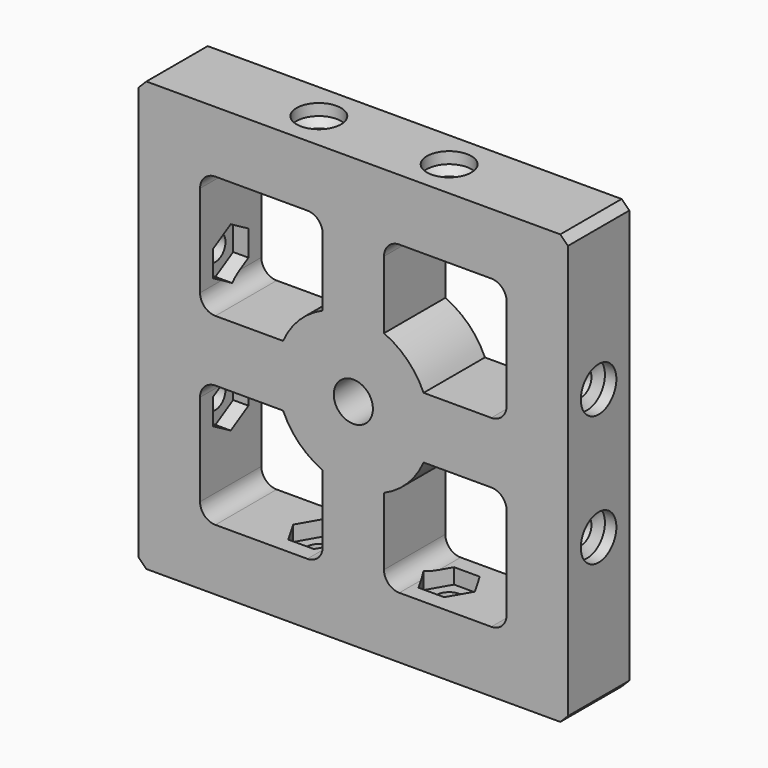
from build123d import *

# Parameters (mm, degrees)
F0_W      = 56
F0_H      = 56
F0_W_2    = 8
F0_H_2    = 8
F1_DEPTH  = 10
F3_START  = -6
F3_DEPTH  = 4
F4_D      = 3.3
F4_DEPTH  = 10
F4_TIP    = 0.9914200214
F5_D      = 5.8
F5_DEPTH  = 1.5
F5_TIP    = 1.7424957952
F7_START  = -6
F7_DEPTH  = 4
F8_D      = 5.8
F8_DEPTH  = 1.5
F8_TIP    = 1.7424957952
F9_D      = 3.3
F9_DEPTH  = 10
F9_START  = 2.2510758
F9_TIP    = 0.9914200214
F11_START = -6
F11_DEPTH = 4
F12_D     = 3.3
F12_DEPTH = 10
F12_TIP   = 0.9914200214
F13_D     = 5.8
F13_DEPTH = 1.5
F13_TIP   = 1.7424957952
F15_START = -6
F15_DEPTH = 4
F16_D     = 5.8
F16_DEPTH = 1.5
F16_TIP   = 1.7424957952
F17_D     = 3.3
F17_DEPTH = 10
F17_START = 2.2510758
F17_TIP   = 0.9914200214
F18_SIZE  = 1
F19_D     = 5.1054
F19_DEPTH = 15.81
F19_TIP   = 1.5338169022


with BuildPart() as f1:
    # F0 (on Front) → F1 (new body)
    with BuildSketch(Plane.XZ):
        Rectangle(F0_W, F0_H)
        with BuildLine():
            ThreePointArc((20, -18), (19.4142135624, -19.4142135624), (18, -20))
            Line((18, -20), (6, -20))
            ThreePointArc((6, -20), (4.5857864376, -19.4142135624), (4, -18))
            Line((4, -18), (4, -9.1651513899))
            ThreePointArc((4, -9.1651513899), (0, -10), (-4, -9.1651513899))
            Line((-4, -9.1651513899), (-4, -18))
            ThreePointArc((-4, -18), (-4.5857864376, -19.4142135624), (-6, -20))
            Line((-6, -20), (-18, -20))
            ThreePointArc((-18, -20), (-19.4142135624, -19.4142135624), (-20, -18))
            Line((-20, -18), (-20, -6))
            ThreePointArc((-20, -6), (-19.4142135624, -4.5857864376), (-18, -4))
            Line((-18, -4), (-9.1651513899, -4))
            ThreePointArc((-9.1651513899, -4), (-10, 0), (-9.1651513899, 4))
            Line((-9.1651513899, 4), (-18, 4))
            ThreePointArc((-18, 4), (-19.4142135624, 4.5857864376), (-20, 6))
            Line((-20, 6), (-20, 18))
            ThreePointArc((-20, 18), (-19.4142135624, 19.4142135624), (-18, 20))
            Line((-18, 20), (-6, 20))
            ThreePointArc((-6, 20), (-4.5857864376, 19.4142135624), (-4, 18))
            Line((-4, 18), (-4, 9.1651513899))
            ThreePointArc((-4, 9.1651513899), (0, 10), (4, 9.1651513899))
            Line((4, 9.1651513899), (4, 18))
            ThreePointArc((4, 18), (4.5857864376, 19.4142135624), (6, 20))
            Line((6, 20), (18, 20))
            ThreePointArc((18, 20), (19.4142135624, 19.4142135624), (20, 18))
            Line((20, 18), (20, 6))
            ThreePointArc((20, 6), (19.4142135624, 4.5857864376), (18, 4))
            Line((18, 4), (9.1651513899, 4))
            ThreePointArc((9.1651513899, 4), (9.7890631293, 2.0430964369), (10, 0))
            ThreePointArc((10, 0), (9.7890631293, -2.0430964369), (9.1651513899, -4))
            Line((9.1651513899, -4), (18, -4))
            ThreePointArc((18, -4), (19.4142135624, -4.5857864376), (20, -6))
            Line((20, -6), (20, -18))
        make_face(mode=Mode.SUBTRACT)
        with BuildLine():
            Line((-9.1651513899, 4), (-4, 4))
            Line((-4, 4), (-4, 9.1651513899))
            ThreePointArc((-4, 9.1651513899), (-7.0710678119, 7.0710678119), (-9.1651513899, 4))
        make_face()
        with BuildLine():
            Line((-4, 4), (4, 4))
            Line((4, 4), (4, 9.1651513899))
            ThreePointArc((4, 9.1651513899), (0, 10), (-4, 9.1651513899))
            Line((-4, 9.1651513899), (-4, 4))
        make_face()
        with BuildLine():
            Line((4, 9.1651513899), (4, 4))
            Line((4, 4), (9.1651513899, 4))
            ThreePointArc((9.1651513899, 4), (7.0710678119, 7.0710678119), (4, 9.1651513899))
        make_face()
        with BuildLine():
            Line((4, 4), (4, -4))
            Line((4, -4), (9.1651513899, -4))
            ThreePointArc((9.1651513899, -4), (9.7890631293, -2.0430964369), (10, 0))
            ThreePointArc((10, 0), (9.7890631293, 2.0430964369), (9.1651513899, 4))
            Line((9.1651513899, 4), (4, 4))
        make_face()
        with BuildLine():
            Line((4, -4), (4, -9.1651513899))
            ThreePointArc((4, -9.1651513899), (7.0710678119, -7.0710678119), (9.1651513899, -4))
            Line((9.1651513899, -4), (4, -4))
        make_face()
        with BuildLine():
            ThreePointArc((-4, -9.1651513899), (0, -10), (4, -9.1651513899))
            Line((4, -9.1651513899), (4, -4))
            Line((4, -4), (-4, -4))
            Line((-4, -4), (-4, -9.1651513899))
        make_face()
        with BuildLine():
            ThreePointArc((-9.1651513899, -4), (-7.0710678119, -7.0710678119), (-4, -9.1651513899))
            Line((-4, -9.1651513899), (-4, -4))
            Line((-4, -4), (-9.1651513899, -4))
        make_face()
        with BuildLine():
            Line((-9.1651513899, -4), (-4, -4))
            Line((-4, -4), (-4, 4))
            Line((-4, 4), (-9.1651513899, 4))
            ThreePointArc((-9.1651513899, 4), (-10, 0), (-9.1651513899, -4))
        make_face()
        Rectangle(F0_W_2, F0_H_2)
    extrude(amount=F1_DEPTH)

    # F2 (on face) → F3 (cut)
    with BuildSketch(Plane.YZ.offset(28).offset(F3_START)):
        Polygon((-7.8785498805, 6.7890692829), (-4.9575654752, 5.1516373189), (-2.0790155946, 6.8625680359), (-2.1214501195, 10.2109307171), (-5.0424345248, 11.8483626811), (-7.9209844054, 10.1374319641), align=None)
        Polygon((-7.8785498805, -10.2109307171), (-4.9575654752, -11.8483626811), (-2.0790155946, -10.1374319641), (-2.1214501195, -6.7890692829), (-5.0424345248, -5.1516373189), (-7.9209844054, -6.8625680359), align=None)
    extrude(amount=-F3_DEPTH, mode=Mode.SUBTRACT)

    # F4
    with Locations(Plane.YZ.offset(28)):
        with Locations((-5, -8.5), (-5, 8.5)):
            Hole(F4_D / 2, depth=F4_DEPTH)
            with Locations((0, 0, -(F4_DEPTH + F4_TIP / 2))):  # 118° drill point
                Cone(0, F4_D / 2, F4_TIP, mode=Mode.SUBTRACT)

    # F5
    with Locations(Plane.YZ.offset(28)):
        with Locations((-5, 8.5), (-5, -8.5)):
            Hole(F5_D / 2, depth=F5_DEPTH)
            with Locations((0, 0, -(F5_DEPTH + F5_TIP / 2))):  # 118° drill point
                Cone(0, F5_D / 2, F5_TIP, mode=Mode.SUBTRACT)

    # F6 (on face) → F7 (cut)
    with BuildSketch(Plane(origin=(0, 0, -28), x_dir=(1, 0, 0), z_dir=(0, 0, -1)).offset(F7_START)):
        Polygon((6.8256842194, 7.9), (5.1513684387, 5), (6.8256842194, 2.1), (10.1743157806, 2.1), (11.8486315613, 5), (10.1743157806, 7.9), align=None)
        Polygon((-10.1743157806, 7.9), (-11.8486315613, 5), (-10.1743157806, 2.1), (-6.8256842194, 2.1), (-5.1513684387, 5), (-6.8256842194, 7.9), align=None)
    extrude(amount=-F7_DEPTH, mode=Mode.SUBTRACT)

    # F8
    with Locations(Plane(origin=(0, 0, -28), x_dir=(1, 0, 0), z_dir=(0, 0, -1))):
        with Locations((8.5, 5), (-8.5, 5)):
            Hole(F8_D / 2, depth=F8_DEPTH)
            with Locations((0, 0, -(F8_DEPTH + F8_TIP / 2))):  # 118° drill point
                Cone(0, F8_D / 2, F8_TIP, mode=Mode.SUBTRACT)

    # F9
    # its depths count from where the whole tool has entered the part; down to there all is cleared
    with Locations(Plane(origin=(0, 0, -28), x_dir=(1, 0, 0), z_dir=(0, 0, -1)).offset(-F9_START)):
        with Locations((8.5, 5), (-8.5, 5)):
            Hole(F9_D / 2, depth=F9_DEPTH)
            with Locations((0, 0, -(F9_DEPTH + F9_TIP / 2))):  # 118° drill point
                Cone(0, F9_D / 2, F9_TIP, mode=Mode.SUBTRACT)

    # F10 (on face) → F11 (cut)
    with BuildSketch(Plane(origin=(-28, 0, 0), x_dir=(0, -1, 0), z_dir=(-1, 0, 0)).offset(F11_START)):
        Polygon((7.9, -6.8256842194), (5, -5.1513684387), (2.1, -6.8256842194), (2.1, -10.1743157806), (5, -11.8486315613), (7.9, -10.1743157806), align=None)
        Polygon((7.9, 10.1743157806), (5, 11.8486315613), (2.1, 10.1743157806), (2.1, 6.8256842194), (5, 5.1513684387), (7.9, 6.8256842194), align=None)
    extrude(amount=-F11_DEPTH, mode=Mode.SUBTRACT)

    # F12
    with Locations(Plane(origin=(-28, 0, 0), x_dir=(0, -1, 0), z_dir=(-1, 0, 0))):
        with Locations((5, -8.5), (5, 8.5)):
            Hole(F12_D / 2, depth=F12_DEPTH)
            with Locations((0, 0, -(F12_DEPTH + F12_TIP / 2))):  # 118° drill point
                Cone(0, F12_D / 2, F12_TIP, mode=Mode.SUBTRACT)

    # F13
    with Locations(Plane(origin=(-28, 0, 0), x_dir=(0, -1, 0), z_dir=(-1, 0, 0))):
        with Locations((5, -8.5), (5, 8.5)):
            Hole(F13_D / 2, depth=F13_DEPTH)
            with Locations((0, 0, -(F13_DEPTH + F13_TIP / 2))):  # 118° drill point
                Cone(0, F13_D / 2, F13_TIP, mode=Mode.SUBTRACT)

    # F14 (on face) → F15 (cut)
    with BuildSketch(Plane.XY.offset(28).offset(F15_START)):
        Polygon((-6.8256842194, -7.9), (-5.1513684387, -5), (-6.8256842194, -2.1), (-10.1743157806, -2.1), (-11.8486315613, -5), (-10.1743157806, -7.9), align=None)
        Polygon((6.8256842194, -7.9), (10.1743157806, -7.9), (11.8486315613, -5), (10.1743157806, -2.1), (6.8256842194, -2.1), (5.1513684387, -5), align=None)
    extrude(amount=-F15_DEPTH, mode=Mode.SUBTRACT)

    # F16
    with Locations(Plane.XY.offset(28)):
        with Locations((-8.5, -5), (8.5, -5)):
            Hole(F16_D / 2, depth=F16_DEPTH)
            with Locations((0, 0, -(F16_DEPTH + F16_TIP / 2))):  # 118° drill point
                Cone(0, F16_D / 2, F16_TIP, mode=Mode.SUBTRACT)

    # F17
    # its depths count from where the whole tool has entered the part; down to there all is cleared
    with Locations(Plane.XY.offset(28).offset(-F17_START)):
        with Locations((-8.5, -5), (8.5, -5)):
            Hole(F17_D / 2, depth=F17_DEPTH)
            with Locations((0, 0, -(F17_DEPTH + F17_TIP / 2))):  # 118° drill point
                Cone(0, F17_D / 2, F17_TIP, mode=Mode.SUBTRACT)

    # F18
    f18_edges = [f1.edges().sort_by_distance(p)[0] for p in [
        (28, -5, 28),
        (28, -5, -28),
        (-28, -5, -28),
        (-28, -5, 28),
    ]]
    chamfer(f18_edges, length=F18_SIZE)

    # F19
    with Locations(Plane(origin=(0, 0, 0), x_dir=(1, 0, 0), z_dir=(0, 1, 0))):
        with Locations((0, 0)):
            Hole(F19_D / 2, depth=F19_DEPTH)
            with Locations((0, 0, -(F19_DEPTH + F19_TIP / 2))):  # 118° drill point
                Cone(0, F19_D / 2, F19_TIP, mode=Mode.SUBTRACT)


solid = f1.part
